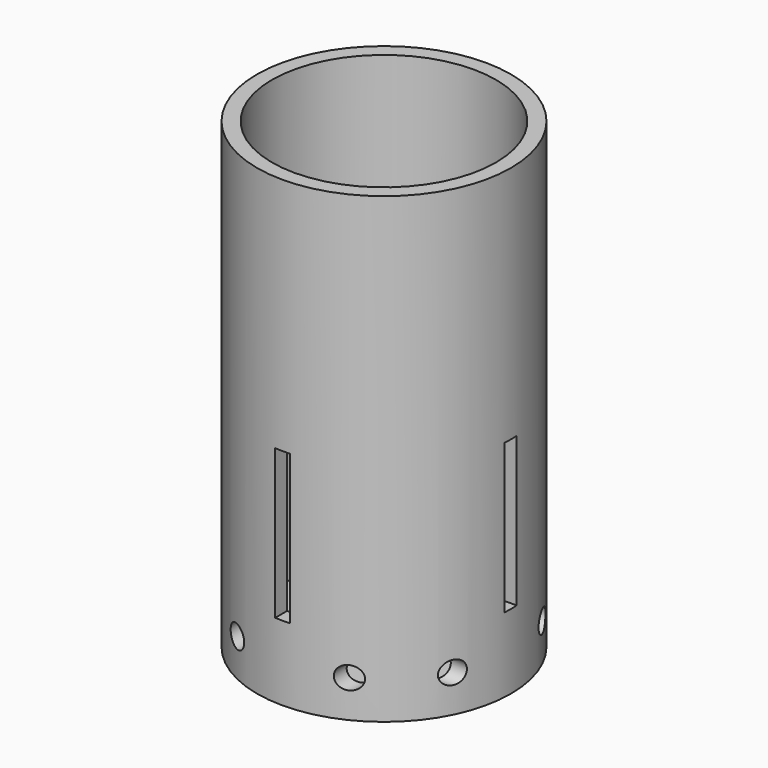
from build123d import *

# Parameters (mm, degrees)
F0_R      = 17
F1_DEPTH  = 62
F2_T      = -2
F3_W      = 2
F3_H      = 20
F4_DEPTH  = 25
F5_W      = 2
F5_H      = 20
F6_DEPTH  = 25
F7_W      = 2
F7_H      = 20
F8_DEPTH  = 25
F9_W      = 2
F9_H      = 20
F10_DEPTH = 25
F11_R     = 1.5
F12_DEPTH = 25
F13_R     = 1.5
F14_DEPTH = 25
F15_R     = 1.5
F16_DEPTH = 25
F17_R     = 1.5
F18_DEPTH = 25
F19_R     = 2
F20_DEPTH = 25


with BuildPart() as f1:
    # F0 (on Top) → F1 (new body)
    with BuildSketch(Plane.XY):
        Circle(F0_R)
    extrude(amount=F1_DEPTH)

    # F2
    f2_openings = [f1.faces().sort_by_distance(p)[0] for p in [
        (0, 0, 62),
    ]]
    offset(amount=F2_T, openings=f2_openings)

    # F3 (on Front) → F4 (cut)
    with BuildSketch(Plane.XZ):
        with Locations((0, 20)):
            Rectangle(F3_W, F3_H)
    extrude(amount=-F4_DEPTH, mode=Mode.SUBTRACT)

    # F5 (on Front) → F6 (cut)
    with BuildSketch(Plane.XZ):
        with Locations((0, 20)):
            Rectangle(F5_W, F5_H)
    extrude(amount=F6_DEPTH, mode=Mode.SUBTRACT)

    # F7 (on Right) → F8 (cut)
    with BuildSketch(Plane.YZ):
        with Locations((0, 20)):
            Rectangle(F7_W, F7_H)
    extrude(amount=-F8_DEPTH, mode=Mode.SUBTRACT)

    # F9 (on Right) → F10 (cut)
    with BuildSketch(Plane.YZ):
        with Locations((0, 20)):
            Rectangle(F9_W, F9_H)
    extrude(amount=F10_DEPTH, mode=Mode.SUBTRACT)

    # F11 (on Front) → F12 (cut)
    with BuildSketch(Plane.XZ):
        with Locations((7.5, 5)):
            Circle(F11_R)
        with Locations((-7.5, 5)):
            Circle(F11_R)
    extrude(amount=-F12_DEPTH, mode=Mode.SUBTRACT)

    # F13 (on Front) → F14 (cut)
    with BuildSketch(Plane.XZ):
        with Locations((7.5, 5)):
            Circle(F13_R)
        with Locations((-7.5, 5)):
            Circle(F13_R)
    extrude(amount=F14_DEPTH, mode=Mode.SUBTRACT)

    # F15 (on Right) → F16 (cut)
    with BuildSketch(Plane.YZ):
        with BuildLine():
            ThreePointArc((7.5, 3.5), (8.56066, 3.93934), (9, 5))
            ThreePointArc((9, 5), (6.43934, 6.06066), (7.5, 3.5))
        make_face()
        with Locations((-7.5, 5)):
            Circle(F15_R)
    extrude(amount=-F16_DEPTH, mode=Mode.SUBTRACT)

    # F17 (on Right) → F18 (cut)
    with BuildSketch(Plane.YZ):
        with Locations((-7.5, 5)):
            Circle(F17_R)
        with Locations((7.5, 5)):
            Circle(F17_R)
    extrude(amount=F18_DEPTH, mode=Mode.SUBTRACT)

    # F19 (on face) → F20 (cut)
    with BuildSketch(Plane(origin=(0, 0, 0), x_dir=(1, 0, 0), z_dir=(0, 0, -1))):
        Circle(F19_R)
    extrude(amount=-F20_DEPTH, mode=Mode.SUBTRACT)


solid = f1.part
